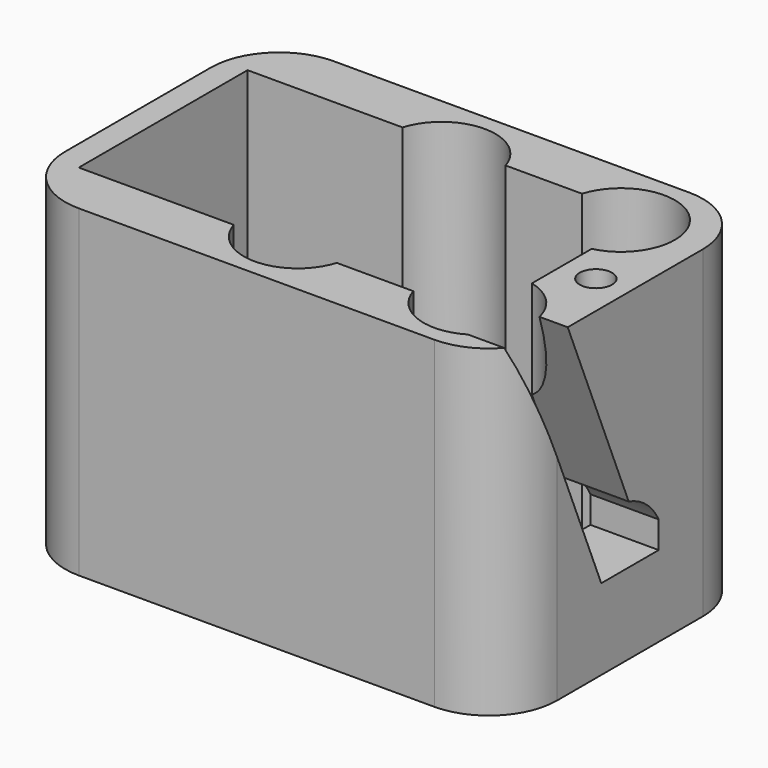
from build123d import *

# Parameters (mm, degrees)
F0_R     = 1.45
F1_DEPTH = 1.5
F2_DEPTH = 18
F3_R     = 0.9
F4_DEPTH = 5
F6_DEPTH = 5
F7_R     = 3.8


with BuildPart() as f1:
    # F0 (on Top) → F1 (new body)
    with BuildSketch(Plane.XY):
        with BuildLine():
            Line((-2.6044162591, 5.2848328158), (-11.2348561883, 5.2848328158))
            Line((-11.2348561883, 5.2848328158), (-11.2348561883, -6.4651671842))
            Line((-11.2348561883, -6.4651671842), (-2.6044162591, -6.4651671842))
            ThreePointArc((-2.6044162591, -6.4651671842), (-0.1771907831, -2.6229563548), (3.2651438117, -5.5901671842))
            ThreePointArc((3.2651438117, -5.5901671842), (3.2323546411, -6.032501779), (3.1347038825, -6.4651671842))
            Line((3.1347038825, -6.4651671842), (7.3955837409, -6.4651671842))
            ThreePointArc((7.3955837409, -6.4651671842), (7.8542311215, -3.8048100771), (10.2651438117, -2.5901671842))
            Line((10.2651438117, -2.5901671842), (10.2651438117, 1.4098328158))
            ThreePointArc((10.2651438117, 1.4098328158), (7.8542311215, 2.6244757087), (7.3955837409, 5.2848328158))
            Line((7.3955837409, 5.2848328158), (3.1347038825, 5.2848328158))
            ThreePointArc((3.1347038825, 5.2848328158), (3.2323546411, 4.8521674106), (3.2651438117, 4.4098328158))
            ThreePointArc((3.2651438117, 4.4098328158), (-0.1771907831, 1.4426219864), (-2.6044162591, 5.2848328158))
        make_face()
        with Locations((-4.7348561883, -0.5901671842)):
            Circle(F0_R, mode=Mode.SUBTRACT)
        with Locations((5.2651438117, -0.5901671842)):
            Circle(F0_R, mode=Mode.SUBTRACT)
        with BuildLine():
            ThreePointArc((10.2651438117, -2.5901671842), (7.8542311215, -3.8048100771), (7.3955837409, -6.4651671842))
            Line((7.3955837409, -6.4651671842), (9.1089107037, -6.4651671842))
            ThreePointArc((9.1089107037, -6.4651671842), (8.9668275944, -4.9445086057), (10.2651438117, -4.1401671842))
            Line((10.2651438117, -4.1401671842), (10.2651438117, -2.5901671842))
        make_face()
        with BuildLine():
            Line((9.1089107037, 5.2848328158), (7.3955837409, 5.2848328158))
            ThreePointArc((7.3955837409, 5.2848328158), (7.8542311215, 2.6244757087), (10.2651438117, 1.4098328158))
            Line((10.2651438117, 1.4098328158), (10.2651438117, 2.9598328158))
            ThreePointArc((10.2651438117, 2.9598328158), (8.9668275944, 3.7641742373), (9.1089107037, 5.2848328158))
        make_face()
        with BuildLine():
            Line((9.1089107037, -6.4651671842), (7.3955837409, -6.4651671842))
            ThreePointArc((7.3955837409, -6.4651671842), (10.7074784065, -8.5573780136), (13.2651438117, -5.5901671842))
            ThreePointArc((13.2651438117, -5.5901671842), (12.6209876096, -3.7327496221), (10.9651438117, -2.672976755))
            ThreePointArc((10.9651438117, -2.672976755), (10.6175843829, -2.6109415057), (10.2651438117, -2.5901671842))
            Line((10.2651438117, -2.5901671842), (10.2651438117, -4.1401671842))
            ThreePointArc((10.2651438117, -4.1401671842), (11.2904486444, -4.5648623515), (11.7151438117, -5.5901671842))
            ThreePointArc((11.7151438117, -5.5901671842), (10.7266424539, -6.9647649448), (9.1089107037, -6.4651671842))
        make_face()
        with BuildLine():
            ThreePointArc((3.1347038825, 5.2848328158), (0.2651438117, 7.4098328158), (-2.6044162591, 5.2848328158))
            Line((-2.6044162591, 5.2848328158), (-0.8910892963, 5.2848328158))
            ThreePointArc((-0.8910892963, 5.2848328158), (0.2651438117, 5.8598328158), (1.4213769197, 5.2848328158))
            Line((1.4213769197, 5.2848328158), (3.1347038825, 5.2848328158))
        make_face()
        with BuildLine():
            Line((-0.8910892963, 5.2848328158), (-2.6044162591, 5.2848328158))
            ThreePointArc((-2.6044162591, 5.2848328158), (-0.1771907831, 1.4426219864), (3.2651438117, 4.4098328158))
            ThreePointArc((3.2651438117, 4.4098328158), (3.2323546411, 4.8521674106), (3.1347038825, 5.2848328158))
            Line((3.1347038825, 5.2848328158), (1.4213769197, 5.2848328158))
            ThreePointArc((1.4213769197, 5.2848328158), (1.6397415722, 4.8713314579), (1.7151438117, 4.4098328158))
            ThreePointArc((1.7151438117, 4.4098328158), (-0.1963548305, 3.0352350552), (-0.8910892963, 5.2848328158))
        make_face()
        with BuildLine():
            ThreePointArc((13.2651438117, 4.4098328158), (10.7074784065, 7.3770436452), (7.3955837409, 5.2848328158))
            Line((7.3955837409, 5.2848328158), (9.1089107037, 5.2848328158))
            ThreePointArc((9.1089107037, 5.2848328158), (10.7266424539, 5.7844305763), (11.7151438117, 4.4098328158))
            ThreePointArc((11.7151438117, 4.4098328158), (11.2904486444, 3.3845279831), (10.2651438117, 2.9598328158))
            Line((10.2651438117, 2.9598328158), (10.2651438117, 1.4098328158))
            ThreePointArc((10.2651438117, 1.4098328158), (10.6175843829, 1.4306071372), (10.9651438117, 1.4926423866))
            ThreePointArc((10.9651438117, 1.4926423866), (12.6209876096, 2.5524152537), (13.2651438117, 4.4098328158))
        make_face()
        with BuildLine():
            ThreePointArc((3.2651438117, -5.5901671842), (-0.1771907831, -2.6229563548), (-2.6044162591, -6.4651671842))
            Line((-2.6044162591, -6.4651671842), (-0.8910892963, -6.4651671842))
            ThreePointArc((-0.8910892963, -6.4651671842), (-0.1963548305, -4.2155694237), (1.7151438117, -5.5901671842))
            ThreePointArc((1.7151438117, -5.5901671842), (1.6397415722, -6.0516658264), (1.4213769197, -6.4651671842))
            Line((1.4213769197, -6.4651671842), (3.1347038825, -6.4651671842))
            ThreePointArc((3.1347038825, -6.4651671842), (3.2323546411, -6.032501779), (3.2651438117, -5.5901671842))
        make_face()
        with BuildLine():
            Line((-0.8910892963, -6.4651671842), (-2.6044162591, -6.4651671842))
            ThreePointArc((-2.6044162591, -6.4651671842), (0.2651438117, -8.5901671842), (3.1347038825, -6.4651671842))
            Line((3.1347038825, -6.4651671842), (1.4213769197, -6.4651671842))
            ThreePointArc((1.4213769197, -6.4651671842), (0.2651438117, -7.0401671842), (-0.8910892963, -6.4651671842))
        make_face()
        with BuildLine():
            ThreePointArc((10.9651438117, 1.4926423866), (10.6175843829, 1.4306071372), (10.2651438117, 1.4098328158))
            Line((10.2651438117, 1.4098328158), (10.2651438117, -2.5901671842))
            ThreePointArc((10.2651438117, -2.5901671842), (10.6175843829, -2.6109415057), (10.9651438117, -2.672976755))
            Line((10.9651438117, -2.672976755), (10.9651438117, 1.4926423866))
        make_face()
    extrude(amount=F1_DEPTH)

    # F0 (on Top) → F2 (join)
    with BuildSketch(Plane.XY):
        Polygon((11.6651438117, 8.2848328158), (-12.6348561883, 8.2848328158), (-12.6348561883, -9.4651671842), (14.7651438117, -9.4651671842), (14.7651438117, 8.2848328158), align=None)
        with BuildLine():
            Line((-11.2348561883, -6.4651671842), (-11.2348561883, 5.2848328158))
            Line((-11.2348561883, 5.2848328158), (-2.6044162591, 5.2848328158))
            ThreePointArc((-2.6044162591, 5.2848328158), (0.2651438117, 7.4098328158), (3.1347038825, 5.2848328158))
            Line((3.1347038825, 5.2848328158), (7.3955837409, 5.2848328158))
            ThreePointArc((7.3955837409, 5.2848328158), (10.7074784065, 7.3770436452), (13.2651438117, 4.4098328158))
            ThreePointArc((13.2651438117, 4.4098328158), (12.6209876096, 2.5524152537), (10.9651438117, 1.4926423866))
            Line((10.9651438117, 1.4926423866), (10.9651438117, -2.672976755))
            ThreePointArc((10.9651438117, -2.672976755), (12.6209876096, -3.7327496221), (13.2651438117, -5.5901671842))
            ThreePointArc((13.2651438117, -5.5901671842), (10.7074784065, -8.5573780136), (7.3955837409, -6.4651671842))
            Line((7.3955837409, -6.4651671842), (3.1347038825, -6.4651671842))
            ThreePointArc((3.1347038825, -6.4651671842), (0.2651438117, -8.5901671842), (-2.6044162591, -6.4651671842))
            Line((-2.6044162591, -6.4651671842), (-11.2348561883, -6.4651671842))
        make_face(mode=Mode.SUBTRACT)
    extrude(amount=F2_DEPTH)

    # F3 (on face) → F4 (cut)
    with BuildSketch(Plane.XY.offset(18)):
        with Locations((12.8651438117, -0.5901671842)):
            Circle(F3_R)
        with Locations((12.8651438117, -0.5901671842)):
            Circle(F3_R)
    extrude(amount=-F4_DEPTH, mode=Mode.SUBTRACT)

    # F5 (on face) → F6 (cut)
    with BuildSketch(Plane.YZ.offset(14.7651438117)):
        Polygon((-2.5901671842, 4.5), (-2.5901671842, 6), (0.0359741347, 6), (-0.6785203239, 7.7283125886), (-4.924895537, 18), (-8.171145565, 18), align=None)
        Polygon((0.0359741347, 6), (-2.5901671842, 6), (-2.5901671842, 4.5), (1.4098328158, 4.5), (1.4098328158, 6), align=None)
        Polygon((-2.5901671842, 4.5), (-2.5901671842, 6), (0.0359741347, 6), (-0.6785203239, 7.7283125886), (-4.924895537, 18), (-8.171145565, 18), align=None)
        with BuildLine():
            Line((-0.6785203239, 7.7283125886), (0.0359741347, 6))
            Line((0.0359741347, 6), (1.4098328158, 6))
            ThreePointArc((1.4098328158, 6), (0.5488853545, 7.0855555288), (-0.6785203239, 7.7283125886))
        make_face()
    extrude(amount=-F6_DEPTH, mode=Mode.SUBTRACT)

    # F7
    f7_edges = [f1.edges().sort_by_distance(p)[0] for p in [
        (14.765144, 8.284833, 9),
        (-12.634856, 8.284833, 9),
        (-12.634856, -9.465167, 9),
        (14.765144, -9.465167, 9),
    ]]
    fillet(f7_edges, radius=F7_R)


solid = f1.part
